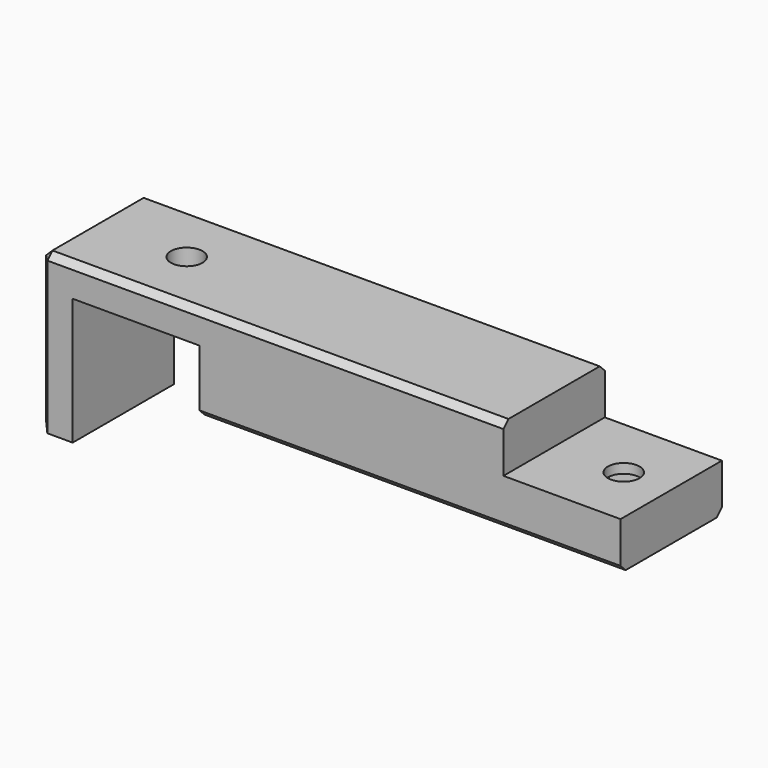
from build123d import *

# Parameters (mm, degrees)
F1_DEPTH = 20
F2_SIZE  = 1
F3_R     = 2.5
F4_DEPTH = 25
F6_DEPTH = 6


with BuildPart() as f1:
    # F0 (on Front) → F1 (new body)
    with BuildSketch(Plane.XZ):
        Polygon((-44.529999, 7.5), (-44.529999, -17.5), (-39.529999, -17.5), (-39.529999, 2.5), (-19.529999, 2.5), (-19.529999, -7.5), (0, -7.5), (46.96333, -7.5), (46.96333, 0), (28.470001, 0), (28.470001, 7.5), (0, 7.5), align=None)
    extrude(amount=F1_DEPTH)

    # F2
    f2_edges = [f1.edges().sort_by_distance(p)[0] for p in [
        (-8.029999, -20, 7.5),
        (-8.029999, 0, 7.5),
        (-44.529999, -10, 7.5),
        (-44.529999, -20, -5),
        (-44.529999, 0, -5),
        (-44.529999, -10, -17.5),
        (13.716665, 0, -7.5),
        (13.716665, -20, -7.5),
    ]]
    chamfer(f2_edges, length=F2_SIZE)

    # F3 (on face) → F4 (cut)
    with BuildSketch(Plane(origin=(0, 0, -7.5), x_dir=(1, 0, 0), z_dir=(0, 0, -1))):
        with Locations((-29.529999, 10)):
            Circle(F3_R)
        with Locations((39.46333, 10)):
            Circle(F3_R)
    extrude(amount=-F4_DEPTH, mode=Mode.SUBTRACT)

    # F5 (on face) → F6 (cut)
    with BuildSketch(Plane(origin=(0, 0, -7.5), x_dir=(1, 0, 0), z_dir=(0, 0, -1))):
        Polygon((35.133203, 12.5), (35.133203, 7.5), (39.46333, 5), (43.793457, 7.5), (43.793457, 12.5), (39.46333, 15), align=None)
    extrude(amount=-F6_DEPTH, mode=Mode.SUBTRACT)


solid = f1.part
